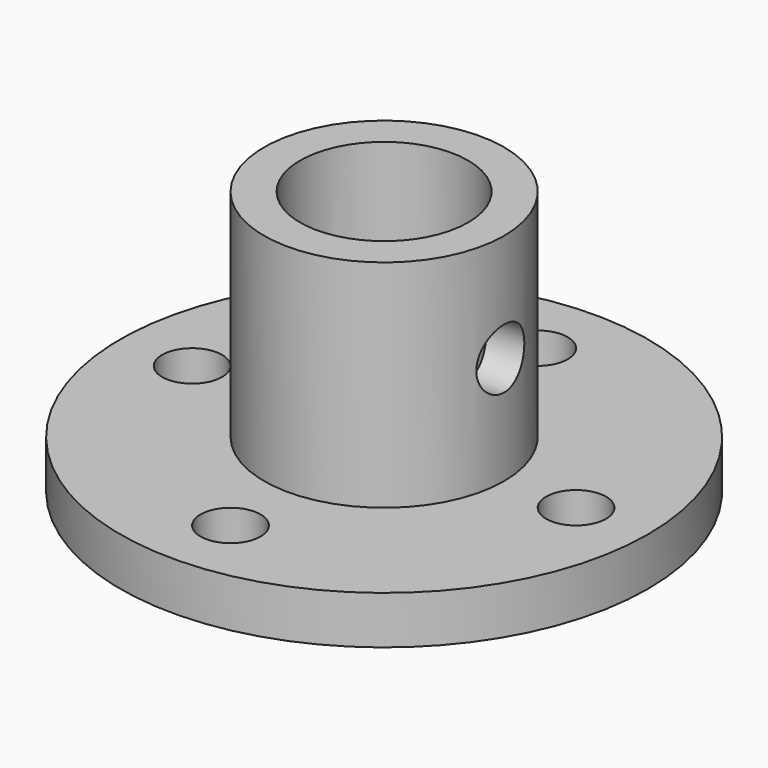
from build123d import *

# Parameters (mm, degrees)
F0_R     = 11
F1_DEPTH = 2
F2_R     = 5
F2_R_2   = 3.5
F3_DEPTH = 9
F4_R     = 3.5
F5_DEPTH = 2
F7_D     = 2.5
F10_D    = 2.5


with BuildPart() as f1:
    # F0 (on Top) → F1 (new body)
    with BuildSketch(Plane.XY):
        Circle(F0_R)
    extrude(amount=F1_DEPTH)

    # F2 (on face) → F3 (join)
    with BuildSketch(Plane.XY.offset(2)):
        Circle(F2_R)
        Circle(F2_R_2, mode=Mode.SUBTRACT)
    extrude(amount=F3_DEPTH)

    # F4 (on face) → F5 (cut, through all)
    with BuildSketch(Plane.XY.offset(2)):
        Circle(F4_R)
    extrude(amount=-F5_DEPTH, mode=Mode.SUBTRACT)

    # F7 (through all)
    with Locations(Plane.XY.offset(2)):
        with Locations((0, 8), (8, 0), (0, -8), (-8, 0)):
            Hole(F7_D / 2)

    # F10 (through all)
    with Locations(Plane.YZ.offset(5)):
        with Locations((0, 6.5)):
            Hole(F10_D / 2)


solid = f1.part
